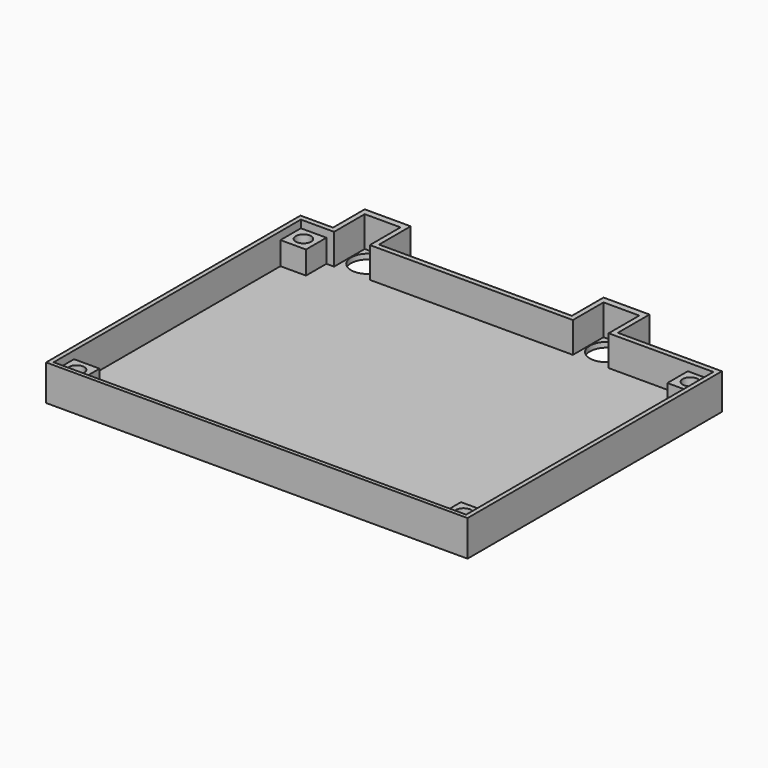
from build123d import *

# Parameters (mm, degrees)
F0_W     = 82.5
F0_H     = 70
F1_DEPTH = 7
F2_W     = 7
F2_H     = 7.5
F3_DEPTH = 6
F4_R     = 3.375
F5_DEPTH = 25
F6_W     = 5
F6_H     = 5
F6_R     = 1.5
F7_DEPTH = 4.5
F8_W     = 6.375
F8_H     = 7.75
F8_W_2   = 37.75
F8_W_3   = 20.375
F9_DEPTH = 25


with BuildPart() as f1:
    # F0 (on Top) → F1 (new body)
    with BuildSketch(Plane.XY):
        Rectangle(F0_W, F0_H)
    extrude(amount=F1_DEPTH)

    # F2 (on face) → F3 (cut)
    with BuildSketch(Plane.XY.offset(7)):
        Polygon((40.375, -34.25), (40.375, 26.25), (19.875, 26.25), (12.875, 26.25), (-26.875, 26.25), (-33.875, 26.25), (-40.375, 26.25), (-40.375, -34.25), align=None)
        with Locations((-30.375, 30)):
            Rectangle(F2_W, F2_H)
        with Locations((16.375, 30)):
            Rectangle(F2_W, F2_H)
    extrude(amount=-F3_DEPTH, mode=Mode.SUBTRACT)

    # F4 (on face) → F5 (cut)
    with BuildSketch(Plane.XY.offset(1)):
        with Locations((-30.375, 30.25)):
            Circle(F4_R)
        with Locations((16.375, 30.25)):
            Circle(F4_R)
    extrude(amount=-F5_DEPTH, mode=Mode.SUBTRACT)

    # F6 (on face) → F7 (join)
    with BuildSketch(Plane.XY.offset(1)):
        with Locations((37.875, 23.75)):
            Rectangle(F6_W, F6_H)
        with Locations((37.875, 23.75)):
            Circle(F6_R, mode=Mode.SUBTRACT)
        with Locations((37.875, -31.75)):
            Rectangle(F6_W, F6_H)
        with Locations((37.875, -31.75)):
            Circle(F6_R, mode=Mode.SUBTRACT)
        with Locations((-37.875, -31.75)):
            Rectangle(F6_W, F6_H)
        with Locations((-37.875, -31.75)):
            Circle(F6_R, mode=Mode.SUBTRACT)
        Polygon((-35.375, 26.25), (-40.375, 26.25), (-40.375, 21.25), (-35.375, 21.25), (-35.375, 23.75), align=None)
        with Locations((-37.875, 23.75)):
            Circle(F6_R, mode=Mode.SUBTRACT)
    extrude(amount=F7_DEPTH)

    # F8 (on face) → F9 (cut)
    with BuildSketch(Plane.XY.offset(7)):
        with Locations((-38.0625, 31.125)):
            Rectangle(F8_W, F8_H)
        with Locations((-7, 31.125)):
            Rectangle(F8_W_2, F8_H)
        with Locations((31.0625, 31.125)):
            Rectangle(F8_W_3, F8_H)
    extrude(amount=-F9_DEPTH, mode=Mode.SUBTRACT)


solid = f1.part
